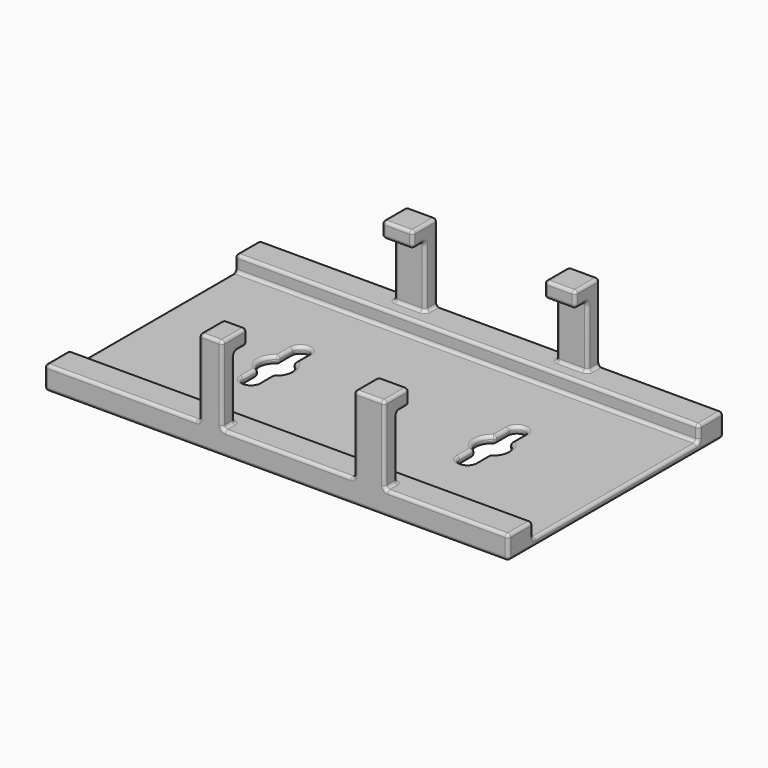
from build123d import *

# Parameters (mm, degrees)
SKETCH_W      = 150
SKETCH_H      = 87
PAD_DEPTH     = 2.5
SKETCH001_W   = 150
SKETCH001_H   = 10
PAD001_DEPTH  = 5
SKETCH002_R   = 5
POCKET_DEPTH  = 2.501
SKETCH003_W   = 10
SKETCH003_H   = 5
SKETCH003_W_2 = 7.5
PAD002_DEPTH  = 20
SKETCH004_W   = 10
SKETCH004_H   = 10
SKETCH004_W_2 = 7.5
PAD003_DEPTH  = 5
FILLET_R      = 1


with BuildPart() as part:
    # Sketch (on XY_Plane of Origin) → Pad (new body)
    with BuildSketch(Plane.XY):
        Rectangle(SKETCH_W, SKETCH_H)
    extrude(amount=PAD_DEPTH)

    # Sketch001 (on Face6 of Pad) → Pad001 (join)
    with BuildSketch(Plane.XY.offset(2.5)):
        with Locations((0, -38.5)):
            Rectangle(SKETCH001_W, SKETCH001_H)
        with Locations((0, 38.5)):
            Rectangle(SKETCH001_W, SKETCH001_H)
    extrude(amount=PAD001_DEPTH)

    # Sketch002 (on Face3 of Pad001) → Pocket (cut, through all)
    with BuildSketch(Plane.XY.offset(2.5)):
        with Locations((-35, 0)):
            Circle(SKETCH002_R)
        with Locations((35, 0)):
            Circle(SKETCH002_R)
        with BuildLine():
            ThreePointArc((-37.5, 0), (-35, -2.5), (-32.5, 0))
            Line((-32.5, 0), (-32.5, 10))
            ThreePointArc((-32.5, 10), (-35, 12.5), (-37.5, 10))
            Line((-37.5, 0), (-37.5, 10))
        make_face()
        with BuildLine():
            ThreePointArc((-32.5, 0), (-35, 2.5), (-37.5, 0))
            Line((-37.5, 0), (-37.5, -10))
            ThreePointArc((-37.5, -10), (-35, -12.5), (-32.5, -10))
            Line((-32.5, 0), (-32.5, -10))
        make_face()
        with BuildLine():
            ThreePointArc((32.5, 0), (35, -2.5), (37.5, 0))
            Line((37.5, 0), (37.5, 10))
            ThreePointArc((37.5, 10), (35, 12.5), (32.5, 10))
            Line((32.5, 0), (32.5, 10))
        make_face()
        with BuildLine():
            ThreePointArc((37.5, 0), (35, 2.5), (32.5, 0))
            Line((32.5, 0), (32.5, -10))
            ThreePointArc((32.5, -10), (35, -12.5), (37.5, -10))
            Line((37.5, 0), (37.5, -10))
        make_face()
    extrude(amount=-POCKET_DEPTH, mode=Mode.SUBTRACT)

    # Sketch003 (on Face20 of Pocket) → Pad002 (join)
    with BuildSketch(Plane.XY.offset(7.5)):
        with Locations((-22.5, 41)):
            Rectangle(SKETCH003_W, SKETCH003_H)
        with Locations((30, 41)):
            Rectangle(SKETCH003_W, SKETCH003_H)
        with Locations((-21.25, -41)):
            Rectangle(SKETCH003_W_2, SKETCH003_H)
        with Locations((30, -41)):
            Rectangle(SKETCH003_W, SKETCH003_H)
    extrude(amount=PAD002_DEPTH)

    # Sketch004 (on Face39 of Pad002) → Pad003 (join)
    with BuildSketch(Plane.XY.offset(27.5)):
        with Locations((-22.5, 38.5)):
            Rectangle(SKETCH004_W, SKETCH004_H)
        with Locations((30, 38.5)):
            Rectangle(SKETCH004_W, SKETCH004_H)
        with Locations((-21.25, -38.5)):
            Rectangle(SKETCH004_W_2, SKETCH004_H)
        with Locations((30, -38.5)):
            Rectangle(SKETCH004_W, SKETCH004_H)
    extrude(amount=PAD003_DEPTH)

    # Fillet
    fillet_edges = [part.edges().sort_by_distance(p)[0] for p in [
        (-75, 0, 0),
        (0, 43.5, 0),
        (0, -43.5, 0),
        (75, 0, 0),
        (-35, 12.5, 0),
        (-37.5, 7.165064, 0),
        (-40, 0, 0),
        (-37.5, -7.165064, 0),
        (-35, -12.5, 0),
        (-32.5, -7.165064, 0),
        (-30.669873, -2.5, 0),
        (-30.669873, 2.5, 0),
        (-32.5, 7.165064, 0),
        (35, 12.5, 0),
        (32.5, 7.165064, 0),
        (30, 0, 0),
        (32.5, -7.165064, 0),
        (35, -12.5, 0),
        (37.5, -7.165064, 0),
        (39.330127, -2.5, 0),
        (39.330127, 2.5, 0),
        (37.5, 7.165064, 0),
        (-75, -43.5, 3.75),
        (-75, -38.5, 7.5),
        (-75, -33.5, 5),
        (-75, 0, 2.5),
        (-75, 33.5, 5),
        (-75, 38.5, 7.5),
        (-75, 43.5, 3.75),
        (75, -43.5, 3.75),
        (75, 43.5, 3.75),
        (75, 38.5, 7.5),
        (75, 33.5, 5),
        (75, 0, 2.5),
        (75, -33.5, 5),
        (75, -38.5, 7.5),
        (-35, 12.5, 2.5),
        (-37.5, 10, 1.25),
        (-32.5, 10, 1.25),
        (-37.5, 7.165064, 2.5),
        (-37.5, 4.330127, 1.25),
        (-40, 0, 2.5),
        (-37.5, -4.330127, 1.25),
        (-37.5, -7.165064, 2.5),
        (-37.5, -10, 1.25),
        (-35, -12.5, 2.5),
        (-32.5, -10, 1.25),
        (-32.5, -4.330127, 1.25),
        (-32.5, -7.165064, 2.5),
        (-32.5, 4.330127, 1.25),
        (-30.669873, 2.5, 2.5),
        (-30.669873, -2.5, 2.5),
        (-32.5, 7.165064, 2.5),
        (35, 12.5, 2.5),
        (32.5, 10, 1.25),
        (37.5, 10, 1.25),
        (32.5, 7.165064, 2.5),
        (32.5, 4.330127, 1.25),
        (30, 0, 2.5),
        (32.5, -4.330127, 1.25),
        (32.5, -7.165064, 2.5),
        (32.5, -10, 1.25),
        (35, -12.5, 2.5),
        (37.5, -10, 1.25),
        (37.5, -4.330127, 1.25),
        (37.5, -7.165064, 2.5),
        (37.5, 4.330127, 1.25),
        (39.330127, 2.5, 2.5),
        (39.330127, -2.5, 2.5),
        (37.5, 7.165064, 2.5),
        (0, -33.5, 7.5),
        (55, -43.5, 7.5),
        (35, -41, 7.5),
        (30, -38.5, 7.5),
        (25, -41, 7.5),
        (3.75, -43.5, 7.5),
        (-17.5, -41, 7.5),
        (-21.25, -38.5, 7.5),
        (-25, -41, 7.5),
        (-50, -43.5, 7.5),
        (0, -33.5, 2.5),
        (0, 33.5, 2.5),
        (0, 33.5, 7.5),
        (-51.25, 43.5, 7.5),
        (-27.5, 41, 7.5),
        (-22.5, 38.5, 7.5),
        (-17.5, 41, 7.5),
        (3.75, 43.5, 7.5),
        (25, 41, 7.5),
        (30, 38.5, 7.5),
        (35, 41, 7.5),
        (55, 43.5, 7.5),
        (35, -38.5, 17.5),
        (25, -38.5, 17.5),
        (30, -38.5, 27.5),
        (-17.5, -38.5, 17.5),
        (-25, -38.5, 17.5),
        (-21.25, -38.5, 27.5),
        (-27.5, 38.5, 17.5),
        (-17.5, 38.5, 17.5),
        (-22.5, 38.5, 27.5),
        (25, 38.5, 17.5),
        (35, 38.5, 17.5),
        (30, 38.5, 27.5),
        (25, -36, 27.5),
        (30, -33.5, 27.5),
        (35, -36, 27.5),
        (-25, -36, 27.5),
        (-21.25, -33.5, 27.5),
        (-17.5, -36, 27.5),
        (-17.5, 36, 27.5),
        (-22.5, 33.5, 27.5),
        (-27.5, 36, 27.5),
        (35, 36, 27.5),
        (30, 33.5, 27.5),
        (25, 36, 27.5),
        (-27.5, 33.5, 30),
        (-17.5, 33.5, 30),
        (-22.5, 33.5, 32.5),
        (-27.5, 38.5, 32.5),
        (-17.5, 38.5, 32.5),
        (-22.5, 43.5, 32.5),
        (25, 33.5, 30),
        (35, 33.5, 30),
        (30, 33.5, 32.5),
        (30, 43.5, 32.5),
        (25, 38.5, 32.5),
        (35, 38.5, 32.5),
        (35, -33.5, 30),
        (25, -33.5, 30),
        (30, -33.5, 32.5),
        (35, -38.5, 32.5),
        (25, -38.5, 32.5),
        (30, -43.5, 32.5),
        (-17.5, -33.5, 30),
        (-25, -33.5, 30),
        (-21.25, -33.5, 32.5),
        (-21.25, -43.5, 32.5),
        (-17.5, -38.5, 32.5),
        (-25, -38.5, 32.5),
        (-27.5, 43.5, 20),
        (-17.5, 43.5, 20),
        (25, 43.5, 20),
        (35, 43.5, 20),
        (35, -43.5, 20),
        (25, -43.5, 20),
        (-17.5, -43.5, 20),
        (-25, -43.5, 20),
    ]]
    fillet(fillet_edges, radius=FILLET_R)


solid = part.part
